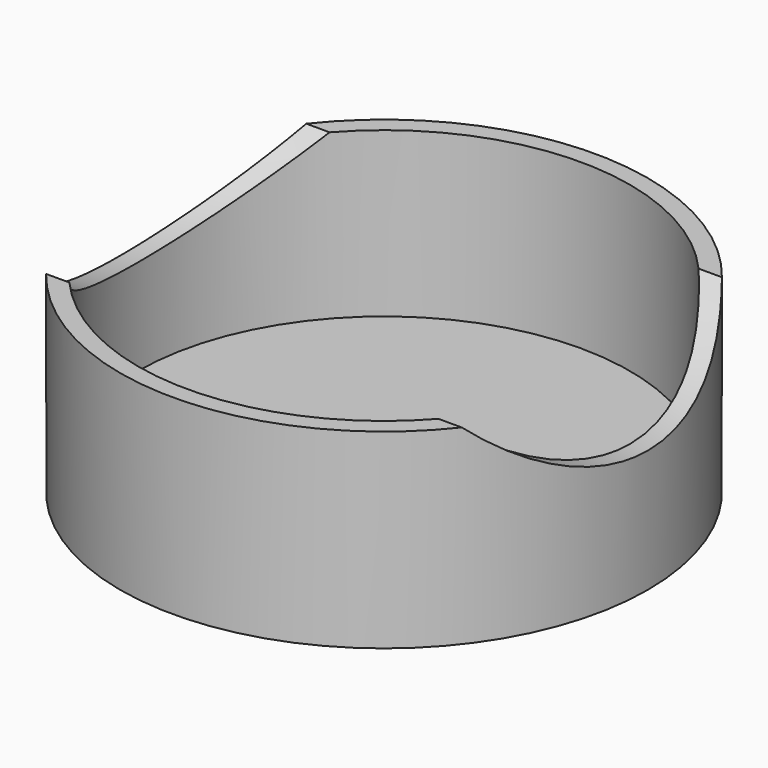
from build123d import *

# Parameters (mm, degrees)
F2_R          = 14.716
F3_DEPTH      = 1.5
F4_R          = 14.716
F4_R_2        = 13.716
F5_DEPTH      = 9.144
F6_R          = 12.7
F7_DEPTH      = 14.717
F7_DEPTH_BACK = 14.717


with BuildPart() as f3:
    # F2 (on Top) → F3 (new body)
    with BuildSketch(Plane.XY):
        Circle(F2_R)
    extrude(amount=F3_DEPTH)

    # F4 (on face) → F5 (join)
    with BuildSketch(Plane.XY.offset(1.5)):
        Circle(F4_R)
        Circle(F4_R_2, mode=Mode.SUBTRACT)
    extrude(amount=F5_DEPTH)

    # F6 (on Right) → F7 (cut, two sides)
    with BuildSketch(Plane.YZ) as f7_sk:
        with Locations((0, 19.534)):
            Circle(F6_R)
    extrude(amount=-F7_DEPTH, mode=Mode.SUBTRACT)
    extrude(f7_sk.sketch, amount=F7_DEPTH_BACK, mode=Mode.SUBTRACT)


solid = f3.part
